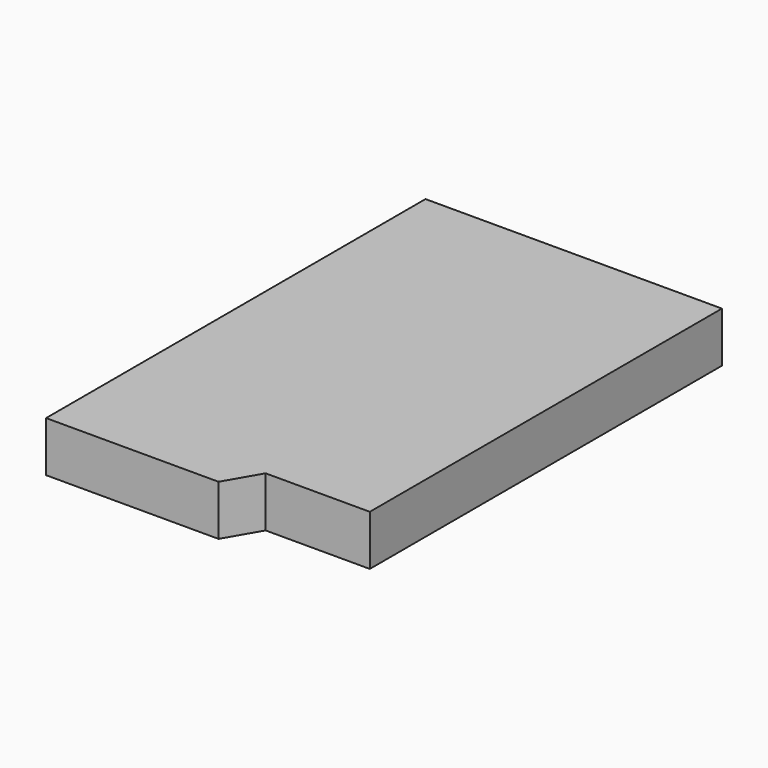
from build123d import *

# Parameters (mm, degrees)
F1_DEPTH = 2.8
F2_T     = -0.3


with BuildPart() as f1:
    # F0 (on Top) → F1 (new body)
    with BuildSketch(Plane.XY):
        Polygon((10.7, 1.9), (16.5, 1.9), (16.5, 26.4), (0, 26.4), (0, 0), (9.6, 0), align=None)
    extrude(amount=F1_DEPTH)

    # F2
    f2_openings = [f1.faces().sort_by_distance(p)[0] for p in [
        (0, 13.2, 1.4),
    ]]
    offset(amount=F2_T, openings=f2_openings, kind=Kind.INTERSECTION)


solid = f1.part
